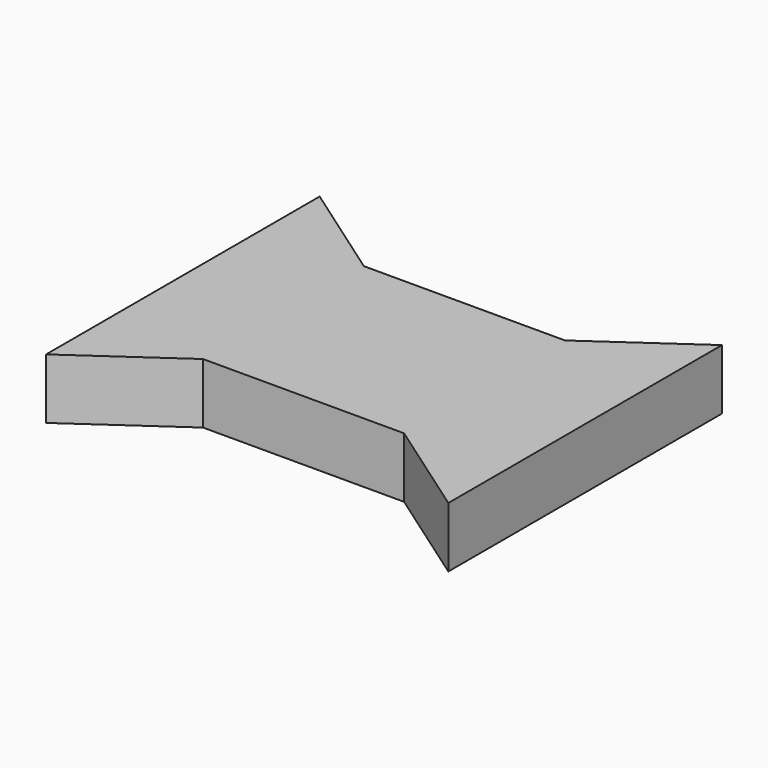
from build123d import *

# Parameters (mm, degrees)
F0_W     = 10
F0_H     = 10
F0_W_2   = 5
F1_DEPTH = 3


with BuildPart() as f1:
    # F0 (on Top) → F1 (new body)
    with BuildSketch(Plane.XY):
        Polygon((10, 8.501038), (5, 5), (5, -5), (10, -8.501038), (10, -5), (10, 5), align=None)
        Rectangle(F0_W, F0_H)
        with Locations((-7.5, 0)):
            Rectangle(F0_W_2, F0_H)
        Polygon((-10, -8.501038), (-5, -5), (-10, -5), align=None)
        Polygon((-10, 5), (-5, 5), (-10, 8.501038), align=None)
    extrude(amount=F1_DEPTH)


solid = f1.part
